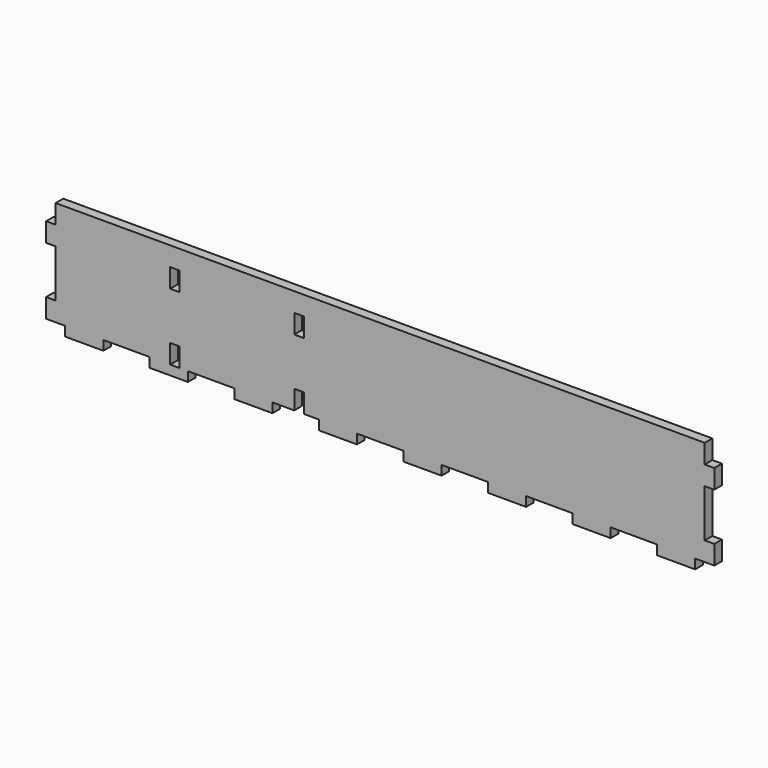
from build123d import *

# Parameters (mm, degrees)
F0_W     = 444.5
F0_H     = 76.2
F1_DEPTH = 6.35
F2_W     = 6.35
F2_H     = 6.35
F2_H_2   = 12.7
F2_H_3   = 31.75
F3_DEPTH = 6.35
F4_W     = 30.842857
F4_H     = 6.35
F4_W_2   = 30.842858
F4_W_3   = 6.35
F5_DEPTH = 6.351
F6_W     = 6.35
F6_H     = 12.7
F7_DEPTH = 6.351


with BuildPart() as f1:
    # F0 (on Front) → F1 (new body)
    with BuildSketch(Plane.XZ):
        with Locations((222.25, 38.1)):
            Rectangle(F0_W, F0_H)
    extrude(amount=F1_DEPTH)

    # F2 (on face) → F3 (cut, through all)
    with BuildSketch(Plane.XZ.offset(6.35)):
        with Locations((3.175, 3.175)):
            Rectangle(F2_W, F2_H)
        with Locations((3.175, 69.85)):
            Rectangle(F2_W, F2_H_2)
        with Locations((3.175, 34.925)):
            Rectangle(F2_W, F2_H_3)
        with Locations((441.325, 3.175)):
            Rectangle(F2_W, F2_H)
        with Locations((441.325, 34.925)):
            Rectangle(F2_W, F2_H_3)
        with Locations((441.325, 69.85)):
            Rectangle(F2_W, F2_H_2)
    extrude(amount=-F3_DEPTH, mode=Mode.SUBTRACT)

    # F4 (on face) → F5 (cut, through all)
    with BuildSketch(Plane.XZ.offset(6.35)):
        with Locations((53.521428, 3.175)):
            Rectangle(F4_W, F4_H)
        with Locations((109.764285, 3.175)):
            Rectangle(F4_W, F4_H)
        with Locations((166.007142, 3.175)):
            Rectangle(F4_W, F4_H)
        with Locations((222.25, 3.175)):
            Rectangle(F4_W_2, F4_H)
        with Locations((278.492858, 3.175)):
            Rectangle(F4_W, F4_H)
        with Locations((334.735714, 3.175)):
            Rectangle(F4_W, F4_H)
        with Locations((390.978571, 3.175)):
            Rectangle(F4_W, F4_H)
        with Locations((9.525, 3.175)):
            Rectangle(F4_W_3, F4_H)
        with Locations((434.975, 3.175)):
            Rectangle(F4_W_3, F4_H)
    extrude(amount=-F5_DEPTH, mode=Mode.SUBTRACT)

    # F6 (on face) → F7 (cut, through all)
    with BuildSketch(Plane.XZ.offset(6.35)):
        with Locations((85.725, 12.7)):
            Rectangle(F6_W, F6_H)
        with Locations((85.725, 57.15)):
            Rectangle(F6_W, F6_H)
        with Locations((168.275, 12.7)):
            Rectangle(F6_W, F6_H)
        with Locations((168.275, 57.15)):
            Rectangle(F6_W, F6_H)
    extrude(amount=-F7_DEPTH, mode=Mode.SUBTRACT)


solid = f1.part
